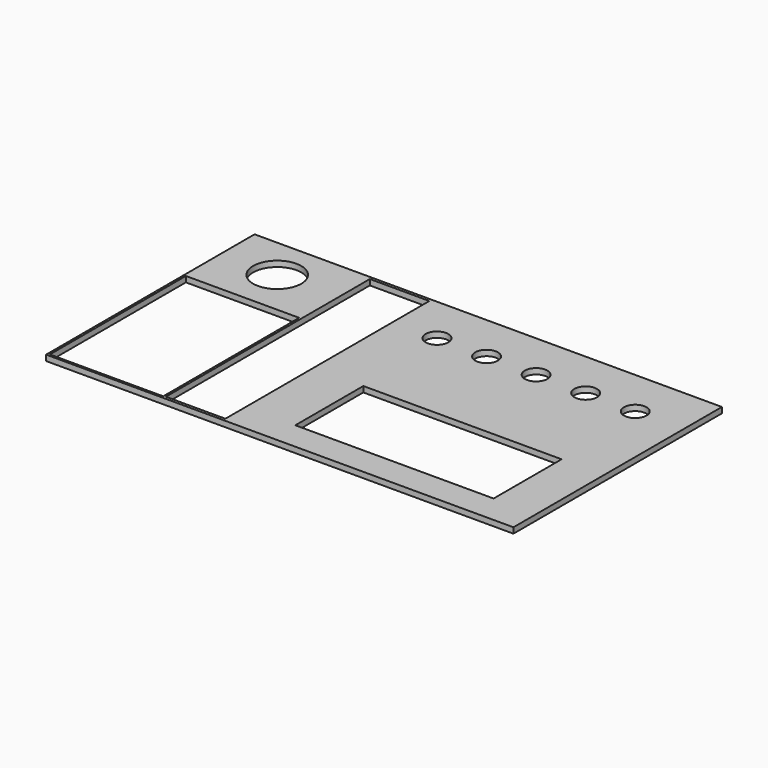
from build123d import *

# Parameters (mm, degrees)
SKETCH_W        = 165
SKETCH_H        = 92
PAD_DEPTH       = 2
SKETCH001_W     = 21
SKETCH001_H     = 90
POCKET_DEPTH    = 5
SKETCH002_R     = 4
POCKET001_DEPTH = 5
SKETCH003_W     = 40
SKETCH003_H     = 60
POCKET002_DEPTH = 5
SKETCH004_R     = 8.5
POCKET003_DEPTH = 5
SKETCH005_W     = 70
SKETCH005_H     = 30
POCKET004_DEPTH = 5


with BuildPart() as part:
    # Sketch → Pad (new body)
    with BuildSketch(Plane.XY):
        Rectangle(SKETCH_W, SKETCH_H)
    extrude(amount=PAD_DEPTH)

    # Sketch001 → Pocket (cut)
    with BuildSketch(Plane.XY):
        with Locations((-30.5, 0)):
            Rectangle(SKETCH001_W, SKETCH001_H)
    extrude(amount=POCKET_DEPTH, mode=Mode.SUBTRACT)

    # Sketch002 → Pocket001 (cut)
    with BuildSketch(Plane.XY):
        with Locations((-4.5, 29)):
            Circle(SKETCH002_R)
        with Locations((13, 29)):
            Circle(SKETCH002_R)
        with Locations((30.5, 29)):
            Circle(SKETCH002_R)
        with Locations((48, 29)):
            Circle(SKETCH002_R)
        with Locations((65.5, 29)):
            Circle(SKETCH002_R)
    extrude(amount=POCKET001_DEPTH, mode=Mode.SUBTRACT)

    # Sketch003 → Pocket002 (cut)
    with BuildSketch(Plane.XY):
        with Locations((-61.75, -15.25)):
            Rectangle(SKETCH003_W, SKETCH003_H)
    extrude(amount=POCKET002_DEPTH, mode=Mode.SUBTRACT)

    # Sketch004 → Pocket003 (cut)
    with BuildSketch(Plane.XY):
        with Locations((-62.5, 31)):
            Circle(SKETCH004_R)
    extrude(amount=POCKET003_DEPTH, mode=Mode.SUBTRACT)

    # Sketch005 → Pocket004 (cut)
    with BuildSketch(Plane.XY):
        with Locations((32.5, -21)):
            Rectangle(SKETCH005_W, SKETCH005_H)
    extrude(amount=POCKET004_DEPTH, mode=Mode.SUBTRACT)


solid = part.part
